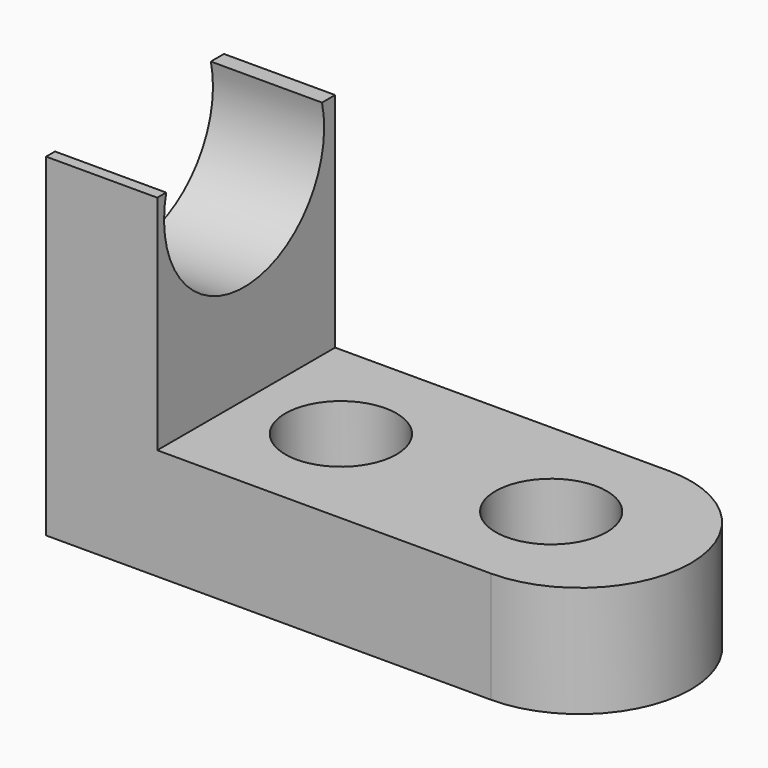
from build123d import *

# Parameters (mm, degrees)
F0_W     = 101.6
F0_H     = 76.2
F1_DEPTH = 50.8
F2_W     = 76.2
F2_H     = 50.8
F3_DEPTH = 50.8
F4_W     = 25.4
F4_H     = 25.4
F6_R     = 12.7
F7_DEPTH = 101.6
F9_DEPTH = 101.6


with BuildPart() as f1:
    # F0 (on Front) → F1 (new body)
    with BuildSketch(Plane.XZ):
        with Locations((3.755716607, -12.4916662514)):
            Rectangle(F0_W, F0_H)
    extrude(amount=F1_DEPTH)

    # F2 (on face) → F3 (cut)
    with BuildSketch(Plane.XY.offset(25.6083337486)):
        with Locations((16.455716607, -25.4)):
            Rectangle(F2_W, F2_H)
    extrude(amount=-F3_DEPTH, mode=Mode.SUBTRACT)

    # F4 (on face) → F5 (revolve)
    with BuildSketch(Plane.YZ.offset(54.555716607)):
        with Locations((-12.7, -37.8916662514)):
            Rectangle(F4_W, F4_H)
    revolve(axis=Axis((54.555716607, -25.4, -37.8916662514), (0, 0, -1)))

    # F6 (on face) → F7 (cut)
    with BuildSketch(Plane.XY.offset(-25.1916662514)):
        with Locations((0, -25.4)):
            Circle(F6_R)
        with Locations((48.030372709, -25.4)):
            Circle(F6_R)
    extrude(amount=-F7_DEPTH, mode=Mode.SUBTRACT)

    # F8 (on face) → F9 (cut)
    with BuildSketch(Plane.YZ.offset(-21.644283393)):
        with BuildLine():
            Line((-3.748458612, 25.6083337486), (-48.2540987432, 25.6083337486))
            ThreePointArc((-48.2540987432, 25.6083337486), (-26.0012786776, -2.4853646692), (-3.748458612, 25.6083337486))
        make_face()
    extrude(amount=-F9_DEPTH, mode=Mode.SUBTRACT)


solid = f1.part
